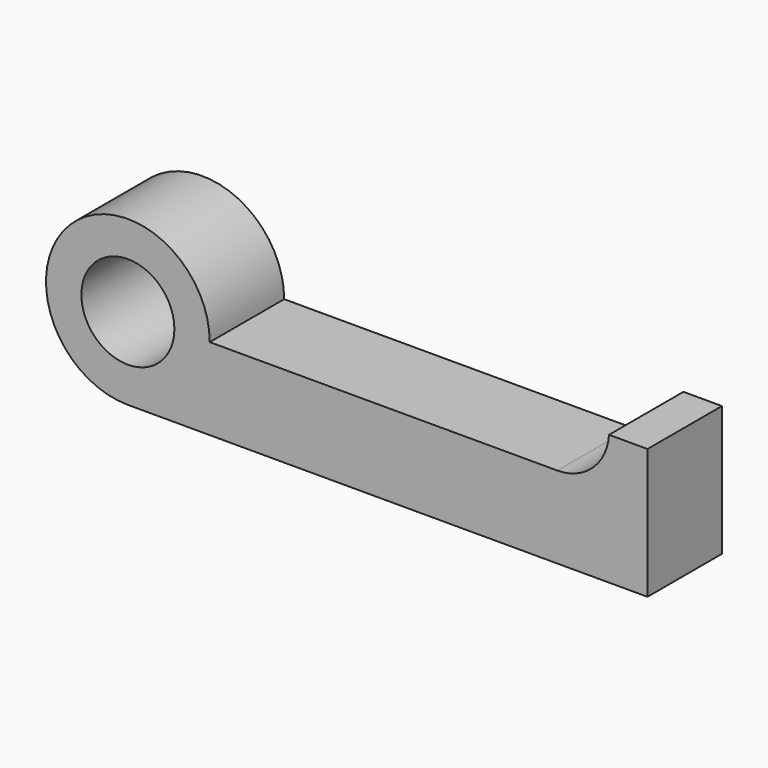
from build123d import *

# Parameters (mm, degrees)
F0_R     = 12.7
F1_DEPTH = 25.4


with BuildPart() as f1:
    # F0 (on Front) → F1 (new body)
    with BuildSketch(Plane.XZ):
        Circle(F0_R)
        with BuildLine():
            ThreePointArc((0, -22.352), (15.805251, -15.805251), (22.352, 0))
            ThreePointArc((22.352, 0), (-15.805251, 15.805251), (0, -22.352))
        make_face()
        Circle(F0_R, mode=Mode.SUBTRACT)
        with BuildLine():
            Line((117.2464, 0), (22.352, 0))
            ThreePointArc((22.352, 0), (15.805251, -15.805251), (0, -22.352))
            Line((0, -22.352), (141.871706, -22.352))
            Line((141.871706, -22.352), (141.871706, 13.181371))
            Line((141.871706, 13.181371), (131.363466, 13.181371))
            ThreePointArc((131.363466, 13.181371), (126.903523, 3.807631), (117.2464, 0))
        make_face()
    extrude(amount=F1_DEPTH)


solid = f1.part
